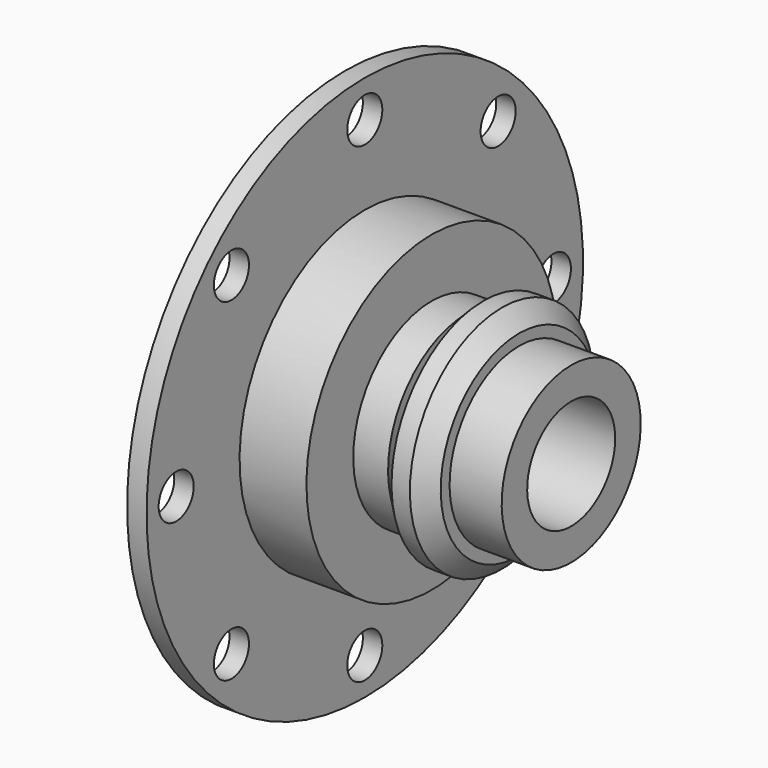
from build123d import *

# Parameters (mm, degrees)
F2_R     = 4
F3_DEPTH = 3.551


with BuildPart() as f1:
    # F0 (on Front) → F1 (revolve)
    with BuildSketch(Plane.XZ):
        Polygon((-31.7, 10.0325), (0, 10.0325), (0, 15.85), (-9.5, 15.85), (-9.5, 17.875), (-12.625, 21), (-15.975, 21), (-19.1, 17.875), (-25.45, 17.875), (-25.45, 28.55), (-37.65, 28.55), (-37.65, 49.75), (-41.2, 49.75), (-41.2, 22.275), (-31.7, 22.275), align=None)
    revolve(axis=Axis((-20.6, 0, 0), (-1, 0, 0)))

    # F2 (on face) → F3 (cut, through all)
    with BuildSketch(Plane.YZ.offset(-37.65)):
        with Locations((0, 43)):
            Circle(F2_R)
        with Locations((30.405592, 30.405592)):
            Circle(F2_R)
        with Locations((43, 0)):
            Circle(F2_R)
        with Locations((30.405592, -30.405592)):
            Circle(F2_R)
        with Locations((0, -43)):
            Circle(F2_R)
        with Locations((-30.405592, -30.405592)):
            Circle(F2_R)
        with Locations((-43, 0)):
            Circle(F2_R)
        with Locations((-30.405592, 30.405592)):
            Circle(F2_R)
    extrude(amount=-F3_DEPTH, mode=Mode.SUBTRACT)


solid = f1.part
